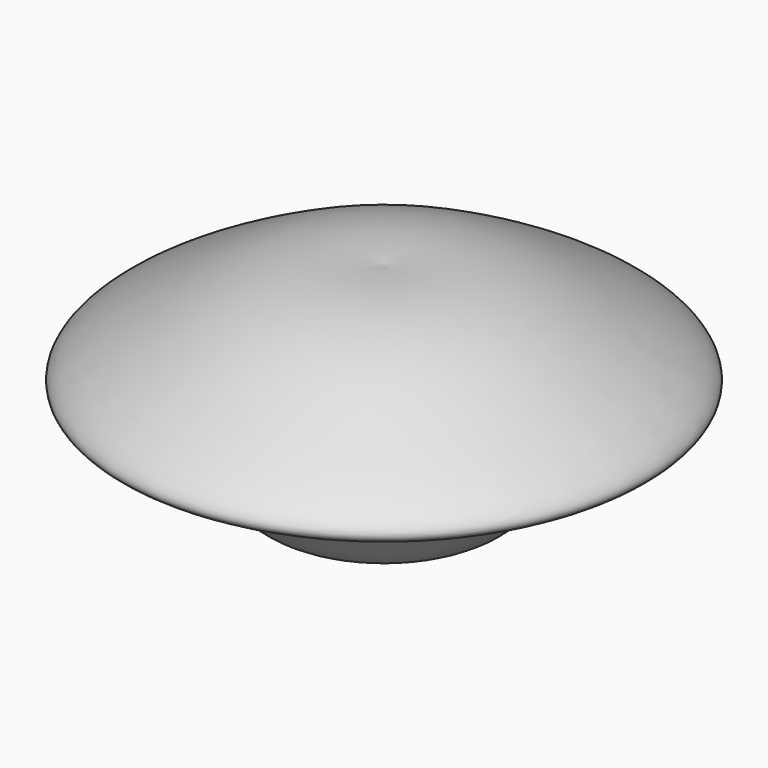
from build123d import *


with BuildPart() as f2:
    # F0 (on Front) → F2 (revolve)
    with BuildSketch(Plane.XZ):
        with BuildLine():
            Line((0, 20), (0, 0))
            add(Edge.make_bspline(
                [(0, 20), (8.6631950517, 20.8845536024), (17.1066660205, 16.6242138947), (31.0162610574, 8.6155314925), (14.860808946, 7.5757776856), (11.1210014437, -4.6971235748), (3.6135316301, 2.6324360084), (0, 0)],
                knots=[0, 0, 0, 0, 0.2627864973, 0.4412884233, 0.6316191148, 0.8132448696, 1, 1, 1, 1], degree=3))
        make_face()
    revolve(axis=Axis((0, 0, 18.8398230821), (0, 0, -1)))


solid = f2.part
